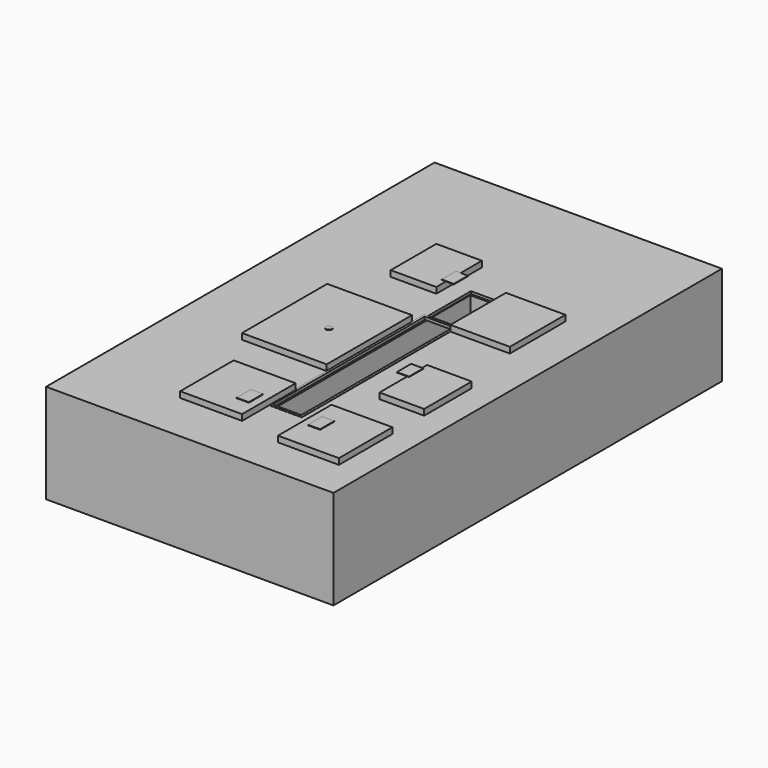
from build123d import *

# Parameters (mm, degrees)
F0_W      = 5800
F0_H      = 9800
F1_DEPTH  = 2000
F2_W      = 920
F2_H      = 1150
F2_W_2    = 900
F2_H_2    = 1200
F2_W_3    = 1230
F2_H_3    = 1350
F2_W_4    = 1710
F2_H_4    = 2150
F2_W_5    = 1250
F3_DEPTH  = 120
F4_DEPTH  = 5
F5_W      = 610
F5_H      = 1090
F6_DEPTH  = 50
F7_W      = 500
F7_H      = 1010
F8_DEPTH  = 1000
F9_W      = 500
F9_H      = 1000
F10_DEPTH = 290
F11_W     = 245
F11_H     = 360
F11_R     = 63.5
F12_DEPTH = 10


with BuildPart() as f1:
    # F0 (on Top) → F1 (new body)
    with BuildSketch(Plane.XY):
        Rectangle(F0_W, F0_H)
    extrude(amount=-F1_DEPTH)

    # F2 (on face) → F3 (join)
    with BuildSketch(Plane.XY):
        with Locations((-540, 1995)):
            Rectangle(F2_W, F2_H)
        with Locations((1920, -1350)):
            Rectangle(F2_W_2, F2_H_2)
        with Locations((1755, -3425)):
            Rectangle(F2_W_3, F2_H_3)
        with Locations((-635, -645)):
            Rectangle(F2_W_4, F2_H_4)
        with Locations((-385, -3205)):
            Rectangle(F2_W_5, F2_H_3)
        Polygon((900, 550), (2100, 550), (2100, 1950), (900, 1950), (900, 1830), (900, 740), align=None)
    extrude(amount=F3_DEPTH)

    # F2 (on face) → F4 (join)
    with BuildSketch(Plane.XY):
        Polygon((900, -3200), (900, 550), (900, 740), (290, 740), (220, 740), (220, 430), (220, -1720), (220, -2515), (270, -2515), (270, 690), (850, 690), (850, -3150), (270, -3150), (270, -3200), align=None)
    extrude(amount=F4_DEPTH)

    # F5 (on face) → F6 (cut)
    with BuildSketch(Plane.XY):
        Polygon((850, 690), (270, 690), (270, -2515), (270, -3150), (850, -3150), align=None)
        with Locations((595, 1285)):
            Rectangle(F5_W, F5_H)
    extrude(amount=-F6_DEPTH, mode=Mode.SUBTRACT)

    # F7 (on face) → F8 (cut)
    with BuildSketch(Plane.XY.offset(-50)):
        Polygon((810, 650), (310, 650), (310, -2515), (310, -3110), (810, -3110), align=None)
        with Locations((560, 1285)):
            Rectangle(F7_W, F7_H)
    extrude(amount=-F8_DEPTH, mode=Mode.SUBTRACT)

    # F9 (on face) → F10 (cut)
    with BuildSketch(Plane.XZ.offset(-650)):
        with Locations((560, -550)):
            Rectangle(F9_W, F9_H)
    extrude(amount=-F10_DEPTH, mode=Mode.SUBTRACT)

    # F11 (on face) → F12 (join)
    with BuildSketch(Plane.XY.offset(120)):
        with Locations((-42.5, 1840)):
            Rectangle(F11_W, F11_H)
        with Locations((-520, -740)):
            Circle(F11_R)
        with Locations((-42.5, -3330)):
            Rectangle(F11_W, F11_H)
        with Locations((1412.5, -3350)):
            Rectangle(F11_W, F11_H)
        with Locations((1382.5, -1070)):
            Rectangle(F11_W, F11_H)
    extrude(amount=F12_DEPTH)


solid = f1.part
